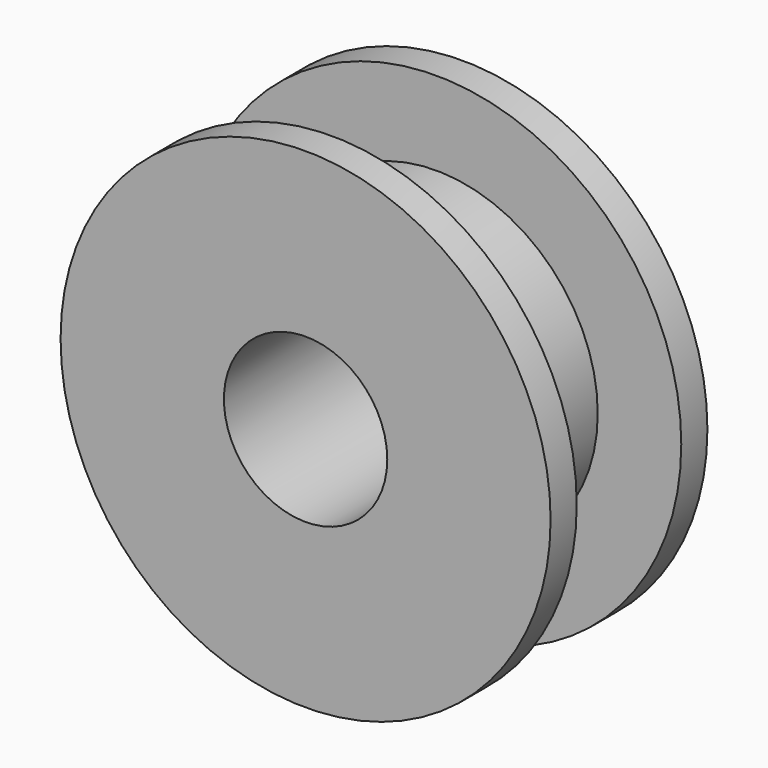
from build123d import *

# Parameters (mm, degrees)
F0_R     = 7.5
F1_DEPTH = 1
F2_R     = 4.942542
F3_DEPTH = 4
F4_R     = 7.5
F5_DEPTH = 1
F6_R     = 2.5
F7_DEPTH = 25


with BuildPart() as f1:
    # F0 (on Front) → F1 (new body)
    with BuildSketch(Plane.XZ):
        Circle(F0_R)
    extrude(amount=F1_DEPTH)

    # F2 (on face) → F3 (join)
    with BuildSketch(Plane.XZ.offset(1)):
        Circle(F2_R)
    extrude(amount=F3_DEPTH)

    # F4 (on face) → F5 (join)
    with BuildSketch(Plane.XZ.offset(5)):
        Circle(F4_R)
    extrude(amount=F5_DEPTH)

    # F6 (on face) → F7 (cut)
    with BuildSketch(Plane.XZ.offset(6)):
        Circle(F6_R)
    extrude(amount=-F7_DEPTH, mode=Mode.SUBTRACT)


solid = f1.part
